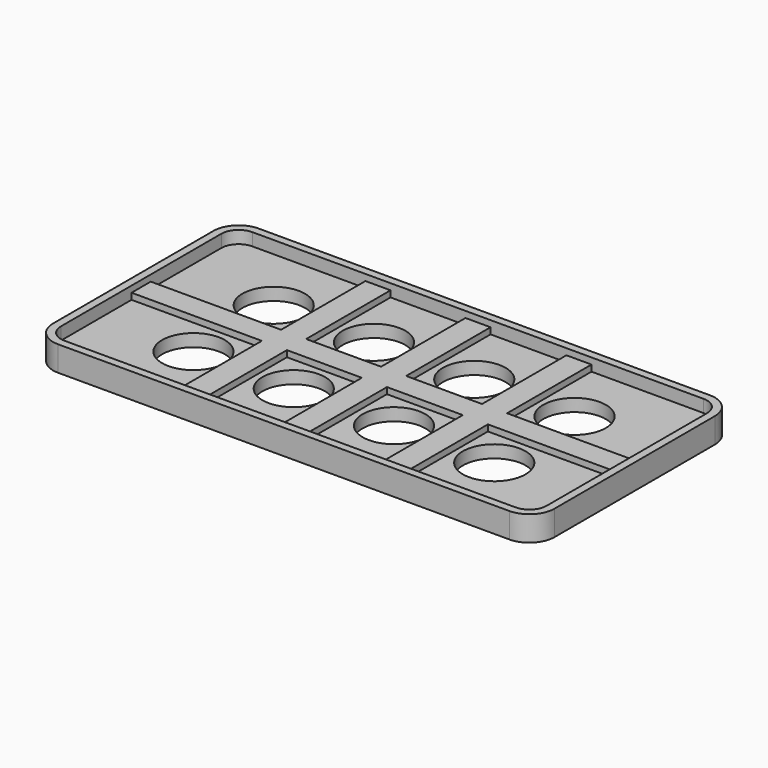
from build123d import *

# Parameters (mm, degrees)
F1_DEPTH = 5.08
F0_W     = 5.08
F0_H     = 21.3788050804
F0_H_2   = 4.8673898391
F0_W_2   = 26.406345436
F0_W_3   = 15.186154564
F0_W_4   = 15.3763087159
F0_W_5   = 26.2161912841
F2_DEPTH = 3.81
F0_R     = 6.35
F3_DEPTH = 2.54


with BuildPart() as f1:
    # F0 (on Top) → F1 (new body)
    with BuildSketch(Plane.XY):
        with BuildLine():
            ThreePointArc((-50.8, -20.32), (-49.3121024484, -23.9121024484), (-45.72, -25.4))
            Line((-45.72, -25.4), (45.72, -25.4))
            ThreePointArc((45.72, -25.4), (49.3121024484, -23.9121024484), (50.8, -20.32))
            Line((50.8, -20.32), (50.8, 20.32))
            ThreePointArc((50.8, 20.32), (49.3121024484, 23.9121024484), (45.72, 25.4))
            Line((45.72, 25.4), (-45.72, 25.4))
            ThreePointArc((-45.72, 25.4), (-49.3121024484, 23.9121024484), (-50.8, 20.32))
            Line((-50.8, 20.32), (-50.8, -20.32))
        make_face()
        with BuildLine():
            ThreePointArc((-49.2125, 20.32), (-48.1895704333, 22.7895704333), (-45.72, 23.8125))
            Line((-45.72, 23.8125), (-22.806154564, 23.8125))
            Line((-22.806154564, 23.8125), (-17.726154564, 23.8125))
            Line((-17.726154564, 23.8125), (-2.54, 23.8125))
            Line((-2.54, 23.8125), (2.54, 23.8125))
            Line((2.54, 23.8125), (17.9163087159, 23.8125))
            Line((17.9163087159, 23.8125), (22.9963087159, 23.8125))
            Line((22.9963087159, 23.8125), (45.72, 23.8125))
            ThreePointArc((45.72, 23.8125), (48.1895704333, 22.7895704333), (49.2125, 20.32))
            Line((49.2125, 20.32), (49.2125, 2.4336949196))
            Line((49.2125, 2.4336949196), (49.2125, -2.4336949196))
            Line((49.2125, -2.4336949196), (49.2125, -20.32))
            ThreePointArc((49.2125, -20.32), (48.1895704333, -22.7895704333), (45.72, -23.8125))
            Line((45.72, -23.8125), (22.9963087159, -23.8125))
            Line((22.9963087159, -23.8125), (17.9163087159, -23.8125))
            Line((17.9163087159, -23.8125), (2.54, -23.8125))
            Line((2.54, -23.8125), (-2.54, -23.8125))
            Line((-2.54, -23.8125), (-17.726154564, -23.8125))
            Line((-17.726154564, -23.8125), (-22.806154564, -23.8125))
            Line((-22.806154564, -23.8125), (-45.72, -23.8125))
            ThreePointArc((-45.72, -23.8125), (-48.1895704333, -22.7895704333), (-49.2125, -20.32))
            Line((-49.2125, -20.32), (-49.2125, -2.4336949196))
            Line((-49.2125, -2.4336949196), (-49.2125, 2.4336949196))
            Line((-49.2125, 2.4336949196), (-49.2125, 20.32))
        make_face(mode=Mode.SUBTRACT)
    extrude(amount=F1_DEPTH)

    # F0 (on Top) → F2 (join)
    with BuildSketch(Plane.XY):
        with Locations((-20.266154564, 13.1230974598)):
            Rectangle(F0_W, F0_H)
        with Locations((-20.266154564, 0)):
            Rectangle(F0_W, F0_H_2)
        with Locations((-36.009327282, 0)):
            Rectangle(F0_W_2, F0_H_2)
        with Locations((-20.266154564, -13.1230974598)):
            Rectangle(F0_W, F0_H)
        with Locations((-10.133077282, 0)):
            Rectangle(F0_W_3, F0_H_2)
        with Locations((0, 13.1230974598)):
            Rectangle(F0_W, F0_H)
        with Locations((0, -13.1230974598)):
            Rectangle(F0_W, F0_H)
        Rectangle(F0_W, F0_H_2)
        with Locations((10.228154358, 0)):
            Rectangle(F0_W_4, F0_H_2)
        with Locations((20.4563087159, 0)):
            Rectangle(F0_W, F0_H_2)
        with Locations((20.4563087159, 13.1230974598)):
            Rectangle(F0_W, F0_H)
        with Locations((20.4563087159, -13.1230974598)):
            Rectangle(F0_W, F0_H)
        with Locations((36.104404358, 0)):
            Rectangle(F0_W_5, F0_H_2)
    extrude(amount=F2_DEPTH)

    # F0 (on Top) → F3 (join)
    with BuildSketch(Plane.XY):
        with BuildLine():
            Line((-22.806154564, 23.8125), (-45.72, 23.8125))
            ThreePointArc((-45.72, 23.8125), (-48.1895704333, 22.7895704333), (-49.2125, 20.32))
            Line((-49.2125, 20.32), (-49.2125, 2.4336949196))
            Line((-49.2125, 2.4336949196), (-22.806154564, 2.4336949196))
            Line((-22.806154564, 2.4336949196), (-22.806154564, 23.8125))
        make_face()
        with Locations((-30.48, 10.16)):
            Circle(F0_R, mode=Mode.SUBTRACT)
        with Locations((-10.133077282, 13.1230974598)):
            Rectangle(F0_W_3, F0_H)
        with Locations((-10.16, 10.16)):
            Circle(F0_R, mode=Mode.SUBTRACT)
        with Locations((10.228154358, 13.1230974598)):
            Rectangle(F0_W_4, F0_H)
        with Locations((10.16, 10.16)):
            Circle(F0_R, mode=Mode.SUBTRACT)
        with BuildLine():
            Line((45.72, 23.8125), (22.9963087159, 23.8125))
            Line((22.9963087159, 23.8125), (22.9963087159, 2.4336949196))
            Line((22.9963087159, 2.4336949196), (49.2125, 2.4336949196))
            Line((49.2125, 2.4336949196), (49.2125, 20.32))
            ThreePointArc((49.2125, 20.32), (48.1895704333, 22.7895704333), (45.72, 23.8125))
        make_face()
        with Locations((30.48, 10.16)):
            Circle(F0_R, mode=Mode.SUBTRACT)
        with BuildLine():
            Line((49.2125, -2.4336949196), (22.9963087159, -2.4336949196))
            Line((22.9963087159, -2.4336949196), (22.9963087159, -23.8125))
            Line((22.9963087159, -23.8125), (45.72, -23.8125))
            ThreePointArc((45.72, -23.8125), (48.1895704333, -22.7895704333), (49.2125, -20.32))
            Line((49.2125, -20.32), (49.2125, -2.4336949196))
        make_face()
        with Locations((30.48, -10.179114528)):
            Circle(F0_R, mode=Mode.SUBTRACT)
        with Locations((10.228154358, -13.1230974598)):
            Rectangle(F0_W_4, F0_H)
        with Locations((10.16, -10.16)):
            Circle(F0_R, mode=Mode.SUBTRACT)
        with Locations((-10.133077282, -13.1230974598)):
            Rectangle(F0_W_3, F0_H)
        with Locations((-10.16, -10.16)):
            Circle(F0_R, mode=Mode.SUBTRACT)
        with BuildLine():
            Line((-22.806154564, -2.4336949196), (-49.2125, -2.4336949196))
            Line((-49.2125, -2.4336949196), (-49.2125, -20.32))
            ThreePointArc((-49.2125, -20.32), (-48.1895704333, -22.7895704333), (-45.72, -23.8125))
            Line((-45.72, -23.8125), (-22.806154564, -23.8125))
            Line((-22.806154564, -23.8125), (-22.806154564, -2.4336949196))
        make_face()
        with Locations((-30.48, -10.16)):
            Circle(F0_R, mode=Mode.SUBTRACT)
    extrude(amount=F3_DEPTH)


solid = f1.part
